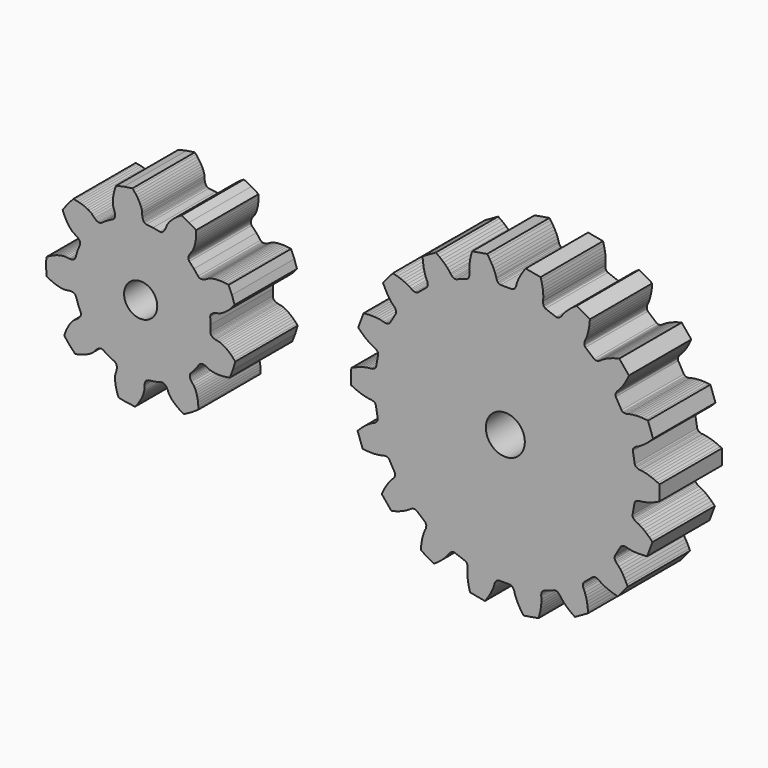
from build123d import *

# Parameters (mm, degrees)
F0_R     = 0.851162
F1_DEPTH = 4
F2_R     = 1
F3_DEPTH = 4


with BuildPart() as f1:
    # F0 (on Front) → F1 (new body)
    with BuildSketch(Plane.XZ):
        Polygon((3.59098, -0.370325), (3.57504, -0.289715), (3.58716, 0.055025), (3.56542, 0.399285), (3.5791, 0.480305), (3.59822, 0.513685), (3.61834, 0.538735), (3.63903, 0.559275), (3.66012, 0.576805), (3.70318, 0.605615), (3.74711, 0.628475), (3.79175, 0.646935), (3.83697, 0.661885), (3.92889, 0.683245), (4.02121, 0.702215), (4.11046, 0.738385), (4.19784, 0.783975), (4.28355, 0.837035), (4.36762, 0.896645), (4.44997, 0.962245), (4.53055, 1.033465), (4.60923, 1.110005), (4.68592, 1.191645), (4.7605, 1.278205), (4.81497, 1.346245), (4.67976, 1.755205), (4.50935, 2.150785), (4.42344, 2.165505), (4.31021, 2.180725), (4.19865, 2.190855), (4.08899, 2.195855), (3.98146, 2.195615), (3.87632, 2.189985), (3.77388, 2.178755), (3.67456, 2.161525), (3.57895, 2.137605), (3.4882, 2.105395), (3.40655, 2.058285), (3.32364, 2.013235), (3.2799, 1.994385), (3.23426, 1.978565), (3.18623, 1.966485), (3.13491, 1.959445), (3.1075, 1.958545), (3.07839, 1.960175), (3.04671, 1.965545), (3.01025, 1.977815), (2.94623, 2.029315), (2.73392, 2.301195), (2.49597, 2.550935), (2.45438, 2.621795), (2.44757, 2.659655), (2.44688, 2.691785), (2.44953, 2.720815), (2.45442, 2.747795), (2.46888, 2.797535), (2.48784, 2.843295), (2.51017, 2.886135), (2.53521, 2.926645), (2.59189, 3.002085), (2.65041, 3.075975), (2.69553, 3.161045), (2.73316, 3.252135), (2.76472, 3.347885), (2.7908, 3.447575), (2.81172, 3.550765), (2.82767, 3.657115), (2.83874, 3.766325), (2.84501, 3.878165), (2.8465, 3.992405), (2.84449, 4.079545), (2.47805, 4.305915), (2.09323, 4.499415), (2.01796, 4.455465), (1.92143, 4.394335), (1.82946, 4.330395), (1.74225, 4.263735), (1.66003, 4.194425), (1.5831, 4.122535), (1.51185, 4.048085), (1.44684, 3.971045), (1.38897, 3.891255), (1.34016, 3.808255), (1.30789, 3.719685), (1.27334, 3.631885), (1.25195, 3.589325), (1.22716, 3.547865), (1.19812, 3.507745), (1.16334, 3.469355), (1.14292, 3.451055), (1.11958, 3.433585), (1.09185, 3.417345), (1.05604, 3.403305), (0.97389, 3.401605), (0.63649, 3.473405), (0.29368, 3.511775), (0.21627, 3.539315), (0.18672, 3.563945), (0.16554, 3.588105), (0.14891, 3.612055), (0.13531, 3.635865), (0.11441, 3.683265), (0.09953, 3.730505), (0.0891, 3.777665), (0.08223, 3.824795), (0.07716, 3.919025), (0.0745, 4.013245), (0.05438, 4.107415), (0.02465, 4.201385), (-0.01271, 4.295015), (-0.05682, 4.388145), (-0.10712, 4.480645), (-0.16326, 4.572355), (-0.22498, 4.663145), (-0.29207, 4.752845), (-0.36436, 4.841315), (-0.42191, 4.906775), (-0.84813, 4.844635), (-1.26729, 4.745505), (-1.29671, 4.663465), (-1.33136, 4.554585), (-1.36071, 4.446485), (-1.38467, 4.339365), (-1.40311, 4.233425), (-1.41583, 4.128905), (-1.42255, 4.026075), (-1.42283, 3.925265), (-1.41587, 3.826945), (-1.39992, 3.731985), (-1.3677, 3.643405), (-1.33773, 3.553925), (-1.32676, 3.507575), (-1.3191, 3.459885), (-1.31555, 3.410485), (-1.31753, 3.358715), (-1.32141, 3.331575), (-1.32806, 3.303185), (-1.33885, 3.272925), (-1.35727, 3.239155), (-1.4191, 3.185045), (-1.72372, 3.023175), (-2.01099, 2.832205), (-2.08799, 2.803555), (-2.12646, 2.803415), (-2.15822, 2.808315), (-2.18635, 2.815965), (-2.21207, 2.825465), (-2.25855, 2.848345), (-2.30031, 2.874965), (-2.33862, 2.904395), (-2.37418, 2.936085), (-2.43863, 3.005005), (-2.50123, 3.075475), (-2.57717, 3.134675), (-2.66035, 3.187555), (-2.74916, 3.235255), (-2.84281, 3.278255), (-2.9408, 3.316775), (-3.04276, 3.350945), (-3.14839, 3.380815), (-3.25744, 3.406415), (-3.36969, 3.427715), (-3.45585, 3.440865), (-3.74242, 3.119295), (-3.99979, 2.773925), (-3.96959, 2.692165), (-3.92615, 2.586495), (-3.87915, 2.484815), (-3.82864, 2.387355), (-3.77467, 2.294345), (-3.71723, 2.206105), (-3.65628, 2.123005), (-3.5917, 2.045605), (-3.52317, 1.974765), (-3.44991, 1.912275), (-3.36829, 1.865125), (-3.28782, 1.815845), (-3.24963, 1.787395), (-3.2131, 1.755785), (-3.17862, 1.720215), (-3.14687, 1.679295), (-3.13239, 1.656005), (-3.11924, 1.629985), (-3.10805, 1.599865), (-3.10045, 1.562155), (-3.11303, 1.480965), (-3.24234, 1.161155), (-3.33965, 0.830215), (-3.38022, 0.758765), (-3.4096, 0.733935), (-3.43708, 0.717275), (-3.46354, 0.705055), (-3.48936, 0.695795), (-3.53966, 0.683455), (-3.58877, 0.676995), (-3.63703, 0.674915), (-3.68464, 0.676335), (-3.77831, 0.687705), (-3.87156, 0.701445), (-3.9678, 0.697985), (-4.0655, 0.685025), (-4.16419, 0.664485), (-4.26357, 0.637225), (-4.3634, 0.603745), (-4.46347, 0.564385), (-4.56359, 0.519365), (-4.66358, 0.468875), (-4.76326, 0.413045), (-4.83772, 0.367735), (-4.85054, -0.062795), (-4.8257, -0.492805), (-4.75001, -0.536025), (-4.64881, -0.589045), (-4.54745, -0.636725), (-4.44611, -0.678925), (-4.34498, -0.715485), (-4.24426, -0.746155), (-4.14415, -0.770635), (-4.04493, -0.788415), (-3.9469, -0.798635), (-3.85061, -0.799415), (-3.75778, -0.783065), (-3.66445, -0.769095), (-3.61691, -0.766335), (-3.56861, -0.767075), (-3.51934, -0.772155), (-3.4687, -0.783095), (-3.44265, -0.791625), (-3.41585, -0.803105), (-3.38792, -0.818995), (-3.35785, -0.842985), (-3.3153, -0.913275), (-3.20879, -1.241375), (-3.07061, -1.557445), (-3.05576, -1.638255), (-3.06231, -1.676165), (-3.07265, -1.706585), (-3.08507, -1.732965), (-3.09889, -1.756645), (-3.12949, -1.798435), (-3.16296, -1.834945), (-3.19859, -1.867565), (-3.23597, -1.897075), (-3.31504, -1.948585), (-3.39531, -1.997995), (-3.4668, -2.062505), (-3.53332, -2.135235), (-3.59572, -2.214405), (-3.65432, -2.299175), (-3.70927, -2.388985), (-3.76063, -2.483465), (-3.80839, -2.582305), (-3.85253, -2.685245), (-3.89301, -2.792095), (-3.92092, -2.874665), (-3.654, -3.212715), (-3.35857, -3.526155), (-3.2728, -3.510605), (-3.16119, -3.486175), (-3.0529, -3.457545), (-2.94815, -3.424735), (-2.84718, -3.387735), (-2.7503, -3.346485), (-2.65789, -3.300895), (-2.57045, -3.250725), (-2.48878, -3.195555), (-2.41452, -3.134245), (-2.35391, -3.062055), (-2.29141, -2.991365), (-2.25675, -2.958695), (-2.21928, -2.928215), (-2.17827, -2.900435), (-2.13246, -2.876265), (-2.10701, -2.866055), (-2.0791, -2.857625), (-2.04749, -2.851835), (-2.00904, -2.850895), (-1.93126, -2.877385), (-1.63877, -3.060255), (-1.32975, -3.213565), (-1.26643, -3.265925), (-1.24709, -3.299175), (-1.23545, -3.329125), (-1.22801, -3.357305), (-1.22337, -3.384335), (-1.21995, -3.436025), (-1.22212, -3.485505), (-1.22845, -3.533395), (-1.23812, -3.580025), (-1.26558, -3.670305), (-1.2953, -3.759755), (-1.30861, -3.855125), (-1.31281, -3.953595), (-1.30972, -4.054355), (-1.30013, -4.156965), (-1.28449, -4.261085), (-1.26311, -4.366475), (-1.23616, -4.472885), (-1.2038, -4.580125), (-1.16613, -4.687985), (-1.13444, -4.769185), (-0.71267, -4.856565), (-0.28488, -4.906775), (-0.22918, -4.839735), (-0.15938, -4.749285), (-0.09483, -4.657745), (-0.03567, -4.565275), (0.01789, -4.472025), (0.06559, -4.378165), (0.10708, -4.283825), (0.14182, -4.189195), (0.16891, -4.094435), (0.18639, -3.999735), (0.18642, -3.905485), (0.18886, -3.811145), (0.1944, -3.763845), (0.20351, -3.716405), (0.21708, -3.668775), (0.23664, -3.620805), (0.24956, -3.596625), (0.26552, -3.572225), (0.28602, -3.547475), (0.31487, -3.522035), (0.39148, -3.492335), (0.73309, -3.444415), (1.06835, -3.363215), (1.15051, -3.362635), (1.18671, -3.375665), (1.21487, -3.391125), (1.23869, -3.407935), (1.25961, -3.425665), (1.29546, -3.463055), (1.32561, -3.502355), (1.35154, -3.543115), (1.37411, -3.585055), (1.4111, -3.671855), (1.44583, -3.759485), (1.49694, -3.841095), (1.55702, -3.919235), (1.62415, -3.994435), (1.69745, -4.066865), (1.77636, -4.136585), (1.86048, -4.203565), (1.94952, -4.267765), (2.04324, -4.329105), (2.14144, -4.387525), (2.21791, -4.429345), (2.59717, -4.225185), (2.95715, -3.988665), (2.95673, -3.901505), (2.95205, -3.787355), (2.94266, -3.675735), (2.92854, -3.566875), (2.90963, -3.461015), (2.88584, -3.358445), (2.85698, -3.259515), (2.82276, -3.164695), (2.78261, -3.074685), (2.73513, -2.990915), (2.67456, -2.918685), (2.6158, -2.844855), (2.58964, -2.805055), (2.56613, -2.762855), (2.54589, -2.717645), (2.53005, -2.668335), (2.52441, -2.641495), (2.52095, -2.612545), (2.52074, -2.580415), (2.52649, -2.542385), (2.56609, -2.470385), (2.79697, -2.214095), (3.0016, -1.936395), (3.06417, -1.883125), (3.10027, -1.869845), (3.13179, -1.863595), (3.16084, -1.861155), (3.18826, -1.861285), (3.23975, -1.866895), (3.28811, -1.877625), (3.33417, -1.892165), (3.37842, -1.909785), (3.46256, -1.952505), (3.54549, -1.997315), (3.6371, -2.026975), (3.73334, -2.048215), (3.83311, -2.062665), (3.93582, -2.071045), (4.04108, -2.073725), (4.14857, -2.070965), (4.25805, -2.062905), (4.36928, -2.049655), (4.48204, -2.031285), (4.56751, -2.014175), (4.72681, -1.613995), (4.85054, -1.201415), (4.79419, -1.134925), (4.71723, -1.050475), (4.63829, -0.971015), (4.5575, -0.896695), (4.47497, -0.827755), (4.39081, -0.764485), (4.30512, -0.707245), (4.21795, -0.656605), (4.12933, -0.613465), (4.03911, -0.579805), (3.94629, -0.563415), (3.85382, -0.544625), (3.8082, -0.530955), (3.76306, -0.513745), (3.7185, -0.492115), (3.67466, -0.464515), (3.65309, -0.447585), (3.63184, -0.427635), (3.61103, -0.403155), align=None)
        Circle(F0_R, mode=Mode.SUBTRACT)
    extrude(amount=F1_DEPTH)


with BuildPart() as f3:
    # F2 (on Front) → F3 (new body)
    with BuildSketch(Plane.XZ):
        Polygon((-6.679609, -0.746446), (-6.639398, -0.826298), (-6.541832, -1.403135), (-6.553548, -1.491771), (-6.576151, -1.52988), (-6.600726, -1.559007), (-6.652836, -1.604091), (-6.706114, -1.643792), (-6.763373, -1.667026), (-6.875589, -1.722563), (-6.985382, -1.787186), (-7.093029, -1.85932), (-7.198625, -1.938134), (-7.302205, -2.023075), (-7.403743, -2.113744), (-7.503204, -2.209856), (-7.576411, -2.285364), (-7.315713, -3.017485), (-7.211259, -3.029729), (-7.073438, -3.041342), (-6.937443, -3.047434), (-6.803499, -3.047797), (-6.671847, -3.042129), (-6.542835, -3.029997), (-6.416904, -3.010683), (-6.294849, -2.982794), (-6.235791, -2.964613), (-6.169411, -2.961706), (-6.10054, -2.963713), (-6.06308, -2.970748), (-6.021483, -2.985995), (-5.956385, -3.047278), (-5.667408, -3.555953), (-5.648102, -3.643256), (-5.656314, -3.686791), (-5.669442, -3.722564), (-5.70299, -3.782756), (-5.739473, -3.838284), (-5.785326, -3.879707), (-5.87179, -3.970264), (-5.952854, -4.068539), (-6.029341, -4.173149), (-6.101613, -4.283331), (-6.169896, -4.398567), (-6.234294, -4.518502), (-6.294893, -4.642832), (-6.337856, -4.738823), (-5.842481, -5.337622), (-5.740139, -5.313411), (-5.606653, -5.277188), (-5.476785, -5.236396), (-5.350784, -5.190923), (-5.229015, -5.14057), (-5.111936, -5.08505), (-5.000205, -5.023828), (-4.89505, -4.955874), (-4.845769, -4.918595), (-4.784383, -4.893155), (-4.718981, -4.871487), (-4.681374, -4.865291), (-4.637069, -4.865386), (-4.554941, -4.9007), (-4.109409, -5.27987), (-4.061418, -5.355301), (-4.054236, -5.399026), (-4.054339, -5.437135), (-4.065277, -5.505167), (-4.080576, -5.569825), (-4.109495, -5.624427), (-4.159762, -5.739101), (-4.202337, -5.859174), (-4.238421, -5.983634), (-4.268655, -6.111884), (-4.293404, -6.243527), (-4.312908, -6.378259), (-4.327316, -6.515811), (-4.334862, -6.620715), (-3.664561, -7.013973), (-3.576678, -6.95622), (-3.463631, -6.876524), (-3.355534, -6.793772), (-3.25269, -6.707949), (-3.155487, -6.618993), (-3.064455, -6.526766), (-2.980405, -6.431026), (-2.904836, -6.331202), (-2.87127, -6.279317), (-2.822292, -6.234415), (-2.768244, -6.191685), (-2.735033, -6.173002), (-2.693358, -6.157937), (-2.6041, -6.163034), (-2.055758, -6.366957), (-1.984862, -6.42143), (-1.963159, -6.460058), (-1.950222, -6.4959), (-1.937234, -6.563569), (-1.929489, -6.629559), (-1.937995, -6.690763), (-1.946008, -6.815717), (-1.944944, -6.943111), (-1.936291, -7.072408), (-1.920836, -7.203263), (-1.899064, -7.335434), (-1.871313, -7.468703), (-1.837808, -7.602898), (-1.809018, -7.704047), (-1.044638, -7.844334), (-0.981807, -7.759999), (-0.902837, -7.64645), (-0.829561, -7.531725), (-0.762281, -7.415901), (-0.701362, -7.299055), (-0.647357, -7.181258), (-0.601122, -7.062543), (-0.564251, -6.942894), (-0.550457, -6.882659), (-0.51979, -6.823721), (-0.483619, -6.765078), (-0.458793, -6.736159), (-0.424794, -6.70775), (-0.33917, -6.682015), (0.245844, -6.686099), (0.331097, -6.713028), (0.364706, -6.741904), (0.389117, -6.77117), (0.424466, -6.830315), (0.454311, -6.889677), (0.467256, -6.950094), (0.502458, -7.070254), (0.547031, -7.1896), (0.599383, -7.308141), (0.658667, -7.425817), (0.724328, -7.542567), (0.795986, -7.658314), (0.873364, -7.772953), (0.935018, -7.858153), (1.701276, -7.728553), (1.731476, -7.627811), (1.766851, -7.4941), (1.796462, -7.361229), (1.820077, -7.229379), (1.837358, -7.098749), (1.847811, -6.96959), (1.850658, -6.842222), (1.844384, -6.717173), (1.836743, -6.655856), (1.845405, -6.589979), (1.859337, -6.5225), (1.872776, -6.48684), (1.895014, -6.448515), (1.966664, -6.395046), (2.5178, -6.198789), (2.60712, -6.194947), (2.648578, -6.210584), (2.681529, -6.229733), (2.734972, -6.273216), (2.783318, -6.318793), (2.816157, -6.371146), (2.890325, -6.472008), (2.973033, -6.568916), (3.062767, -6.662398), (3.158724, -6.752712), (3.260357, -6.839964), (3.367285, -6.924212), (3.479207, -7.005475), (3.566276, -7.064456), (4.242003, -6.680587), (4.23592, -6.575597), (4.223433, -6.437854), (4.205815, -6.302871), (4.18291, -6.170891), (4.154467, -6.042225), (4.120122, -5.91728), (4.079226, -5.796619), (4.030569, -5.681262), (4.002411, -5.626253), (3.988021, -5.561388), (3.978035, -5.493209), (3.978459, -5.455108), (3.986255, -5.411487), (4.035293, -5.33674), (4.486069, -4.963826), (4.568691, -4.929654), (4.612996, -4.930174), (4.650508, -4.936897), (4.715607, -4.959482), (4.776621, -4.985771), (4.825374, -5.023733), (4.929576, -5.09315), (5.040434, -5.155929), (5.156734, -5.213084), (5.277794, -5.265125), (5.403136, -5.312355), (5.532434, -5.354955), (5.665392, -5.393038), (5.767388, -5.418678), (6.27107, -4.826853), (6.229457, -4.730274), (6.170606, -4.605104), (6.107878, -4.484287), (6.041222, -4.368099), (5.97049, -4.25693), (5.895474, -4.151265), (5.815786, -4.051865), (5.730594, -3.960105), (5.685329, -3.918041), (5.649617, -3.862011), (5.616916, -3.80136), (5.604291, -3.765406), (5.596693, -3.721759), (5.61721, -3.634741), (5.913257, -3.130142), (5.979203, -3.069777), (6.021016, -3.055109), (6.058563, -3.048602), (6.12746, -3.047555), (6.193788, -3.051388), (6.252587, -3.070391), (6.374243, -3.099985), (6.499889, -3.121056), (6.628728, -3.134988), (6.760284, -3.14249), (6.89422, -3.144005), (7.030284, -3.139808), (7.168261, -3.130116), (7.27287, -3.119334), (7.543762, -2.390926), (7.471619, -2.314405), (7.373508, -2.216908), (7.273251, -2.124829), (7.170865, -2.038451), (7.066377, -1.958175), (6.959751, -1.884535), (6.850867, -1.81839), (6.739438, -1.761295), (6.682508, -1.737256), (6.629792, -1.696819), (6.578323, -1.651009), (6.554154, -1.621545), (6.532088, -1.583133), (6.5216, -1.494341), (6.627214, -0.918915), (6.668542, -0.839633), (6.702818, -0.811562), (6.735873, -0.792594), (6.800254, -0.768053), (6.863899, -0.748973), (6.925648, -0.746714), (7.050091, -0.732912), (7.175365, -0.709739), (7.301193, -0.678768), (7.427384, -0.640824), (7.553765, -0.596432), (7.680189, -0.545958), (7.806519, -0.489659), (7.901134, -0.443745), (7.90656, 0.333381), (7.812602, 0.380619), (7.68706, 0.438674), (7.561354, 0.490906), (7.435604, 0.537062), (7.309958, 0.576763), (7.184572, 0.60949), (7.059636, 0.634403), (6.935401, 0.649944), (6.873685, 0.65306), (6.810317, 0.673031), (6.746283, 0.698472), (6.713496, 0.717899), (6.679618, 0.746446), (6.639398, 0.826298), (6.541832, 1.403144), (6.553548, 1.491771), (6.576159, 1.52988), (6.600735, 1.559007), (6.652836, 1.604091), (6.706114, 1.643792), (6.763373, 1.667035), (6.875589, 1.722563), (6.985382, 1.787186), (7.093029, 1.85932), (7.198634, 1.938134), (7.302205, 2.023075), (7.403743, 2.113744), (7.503204, 2.209856), (7.576411, 2.285364), (7.315713, 3.017485), (7.211259, 3.029729), (7.073438, 3.041351), (6.937443, 3.047442), (6.803499, 3.047797), (6.671847, 3.042129), (6.542835, 3.029997), (6.416913, 3.010683), (6.294849, 2.982794), (6.235791, 2.964613), (6.169411, 2.961706), (6.10054, 2.963713), (6.063088, 2.970748), (6.021483, 2.985995), (5.956385, 3.047278), (5.667408, 3.555962), (5.648111, 3.643256), (5.656314, 3.686799), (5.66945, 3.722572), (5.70299, 3.782756), (5.739481, 3.838284), (5.785335, 3.879707), (5.87179, 3.970273), (5.952863, 4.068548), (6.029341, 4.173149), (6.101621, 4.283331), (6.169896, 4.398567), (6.234302, 4.518502), (6.294893, 4.642832), (6.337856, 4.738823), (5.842481, 5.337631), (5.740139, 5.313411), (5.606662, 5.277188), (5.476785, 5.236405), (5.350784, 5.190923), (5.229024, 5.140578), (5.111936, 5.08505), (5.000205, 5.023828), (4.89505, 4.955874), (4.845769, 4.918595), (4.784392, 4.893155), (4.718981, 4.871487), (4.681383, 4.865291), (4.637069, 4.865386), (4.554941, 4.9007), (4.109418, 5.279879), (4.061418, 5.35531), (4.054236, 5.399026), (4.054348, 5.437135), (4.065277, 5.505167), (4.080576, 5.569825), (4.109495, 5.624427), (4.159762, 5.739101), (4.202337, 5.859182), (4.238429, 5.983634), (4.268664, 6.111884), (4.293404, 6.243535), (4.312908, 6.378259), (4.327325, 6.51582), (4.334862, 6.620715), (3.664561, 7.013973), (3.576678, 6.95622), (3.463631, 6.876524), (3.355534, 6.793781), (3.252699, 6.707949), (3.155487, 6.618993), (3.064455, 6.526766), (2.980405, 6.431026), (2.904836, 6.331202), (2.87127, 6.279317), (2.822292, 6.234424), (2.768244, 6.191685), (2.735033, 6.173002), (2.693367, 6.157937), (2.6041, 6.163034), (2.055767, 6.366966), (1.984862, 6.42143), (1.963159, 6.460058), (1.950231, 6.4959), (1.937234, 6.563569), (1.929498, 6.629559), (1.937995, 6.690763), (1.946008, 6.815717), (1.944944, 6.943111), (1.936291, 7.072408), (1.920845, 7.203263), (1.899073, 7.335434), (1.871313, 7.468703), (1.837808, 7.602898), (1.809018, 7.704047), (1.044638, 7.844334), (0.981807, 7.759999), (0.902837, 7.64645), (0.829569, 7.531725), (0.762281, 7.415901), (0.701362, 7.299055), (0.647366, 7.181258), (0.601131, 7.062543), (0.564251, 6.942894), (0.550466, 6.882659), (0.51979, 6.823721), (0.483619, 6.765078), (0.458802, 6.736159), (0.424794, 6.707759), (0.339179, 6.682015), (-0.245844, 6.686099), (-0.331097, 6.713028), (-0.364697, 6.741913), (-0.389117, 6.77117), (-0.424466, 6.830315), (-0.454311, 6.889677), (-0.467256, 6.950094), (-0.502458, 7.070254), (-0.547031, 7.1896), (-0.599383, 7.308141), (-0.658658, 7.425817), (-0.724319, 7.542576), (-0.795986, 7.658314), (-0.873364, 7.772953), (-0.935018, 7.858153), (-1.701276, 7.728553), (-1.731476, 7.627811), (-1.766851, 7.4941), (-1.796462, 7.361229), (-1.820077, 7.229379), (-1.837358, 7.098749), (-1.847811, 6.96959), (-1.850658, 6.842222), (-1.844384, 6.717173), (-1.836743, 6.655856), (-1.845405, 6.589979), (-1.859337, 6.5225), (-1.872776, 6.48684), (-1.895014, 6.448515), (-1.966664, 6.395046), (-2.5178, 6.198798), (-2.60712, 6.194947), (-2.648578, 6.210584), (-2.681521, 6.229733), (-2.734972, 6.273216), (-2.783318, 6.318793), (-2.816149, 6.371146), (-2.890325, 6.472008), (-2.973033, 6.568916), (-3.062767, 6.662407), (-3.158715, 6.752712), (-3.260357, 6.839964), (-3.367277, 6.924212), (-3.479198, 7.005475), (-3.566276, 7.064456), (-4.241995, 6.680596), (-4.23592, 6.575597), (-4.223433, 6.437854), (-4.205815, 6.302871), (-4.18291, 6.170891), (-4.154467, 6.042234), (-4.120113, 5.91728), (-4.079226, 5.796619), (-4.03056, 5.681262), (-4.002411, 5.626253), (-3.988021, 5.561388), (-3.978035, 5.493217), (-3.978459, 5.455108), (-3.986247, 5.411487), (-4.035293, 5.33674), (-4.486069, 4.963826), (-4.568691, 4.929654), (-4.612996, 4.930174), (-4.650499, 4.936897), (-4.715598, 4.959482), (-4.776621, 4.985771), (-4.825374, 5.023733), (-4.929576, 5.09315), (-5.040434, 5.155929), (-5.156734, 5.213084), (-5.277785, 5.265125), (-5.403136, 5.312355), (-5.532425, 5.354955), (-5.665392, 5.393038), (-5.767388, 5.418678), (-6.27107, 4.826853), (-6.229457, 4.730274), (-6.170606, 4.605104), (-6.107878, 4.484287), (-6.041213, 4.368099), (-5.97049, 4.25693), (-5.895474, 4.151265), (-5.815777, 4.051865), (-5.730594, 3.960105), (-5.685329, 3.918041), (-5.649617, 3.862011), (-5.616916, 3.80136), (-5.604282, 3.765415), (-5.596685, 3.721759), (-5.61721, 3.634741), (-5.913257, 3.130142), (-5.979203, 3.069777), (-6.021016, 3.055118), (-6.058563, 3.048602), (-6.12746, 3.047555), (-6.193788, 3.051388), (-6.252587, 3.070391), (-6.374243, 3.099985), (-6.499889, 3.121056), (-6.628728, 3.134988), (-6.760275, 3.14249), (-6.89422, 3.144005), (-7.030284, 3.139808), (-7.168261, 3.130116), (-7.27287, 3.119334), (-7.543762, 2.390926), (-7.471619, 2.314405), (-7.373508, 2.216917), (-7.273242, 2.124829), (-7.170865, 2.03846), (-7.066377, 1.958175), (-6.959742, 1.884544), (-6.850867, 1.81839), (-6.739438, 1.761304), (-6.682508, 1.737265), (-6.629792, 1.696828), (-6.578323, 1.651018), (-6.554154, 1.621553), (-6.532079, 1.583133), (-6.5216, 1.494341), (-6.627214, 0.918923), (-6.668542, 0.839642), (-6.702818, 0.811562), (-6.735864, 0.792594), (-6.800254, 0.768053), (-6.863899, 0.748973), (-6.925648, 0.746714), (-7.050091, 0.732912), (-7.175365, 0.709739), (-7.301193, 0.678768), (-7.427375, 0.640824), (-7.553756, 0.596432), (-7.680189, 0.545958), (-7.806519, 0.489659), (-7.901134, 0.443745), (-7.90656, -0.333381), (-7.812593, -0.380619), (-7.68706, -0.438674), (-7.561354, -0.490906), (-7.435604, -0.537062), (-7.309958, -0.576755), (-7.184572, -0.609482), (-7.059636, -0.634403), (-6.935401, -0.649944), (-6.873685, -0.65306), (-6.810309, -0.673031), (-6.746274, -0.698472), (-6.713487, -0.71789), align=None)
        Circle(F2_R, mode=Mode.SUBTRACT)
        Polygon((-6.679609, -0.746446), (-6.639398, -0.826298), (-6.541832, -1.403135), (-6.553548, -1.491771), (-6.576151, -1.52988), (-6.600726, -1.559007), (-6.652836, -1.604091), (-6.706114, -1.643792), (-6.763373, -1.667026), (-6.875589, -1.722563), (-6.985382, -1.787186), (-7.093029, -1.85932), (-7.198625, -1.938134), (-7.302205, -2.023075), (-7.403743, -2.113744), (-7.503204, -2.209856), (-7.576411, -2.285364), (-7.315713, -3.017485), (-7.211259, -3.029729), (-7.073438, -3.041342), (-6.937443, -3.047434), (-6.803499, -3.047797), (-6.671847, -3.042129), (-6.542835, -3.029997), (-6.416904, -3.010683), (-6.294849, -2.982794), (-6.235791, -2.964613), (-6.169411, -2.961706), (-6.10054, -2.963713), (-6.06308, -2.970748), (-6.021483, -2.985995), (-5.956385, -3.047278), (-5.667408, -3.555953), (-5.648102, -3.643256), (-5.656314, -3.686791), (-5.669442, -3.722564), (-5.70299, -3.782756), (-5.739473, -3.838284), (-5.785326, -3.879707), (-5.87179, -3.970264), (-5.952854, -4.068539), (-6.029341, -4.173149), (-6.101613, -4.283331), (-6.169896, -4.398567), (-6.234294, -4.518502), (-6.294893, -4.642832), (-6.337856, -4.738823), (-5.842481, -5.337622), (-5.740139, -5.313411), (-5.606653, -5.277188), (-5.476785, -5.236396), (-5.350784, -5.190923), (-5.229015, -5.14057), (-5.111936, -5.08505), (-5.000205, -5.023828), (-4.89505, -4.955874), (-4.845769, -4.918595), (-4.784383, -4.893155), (-4.718981, -4.871487), (-4.681374, -4.865291), (-4.637069, -4.865386), (-4.554941, -4.9007), (-4.109409, -5.27987), (-4.061418, -5.355301), (-4.054236, -5.399026), (-4.054339, -5.437135), (-4.065277, -5.505167), (-4.080576, -5.569825), (-4.109495, -5.624427), (-4.159762, -5.739101), (-4.202337, -5.859174), (-4.238421, -5.983634), (-4.268655, -6.111884), (-4.293404, -6.243527), (-4.312908, -6.378259), (-4.327316, -6.515811), (-4.334862, -6.620715), (-3.664561, -7.013973), (-3.576678, -6.95622), (-3.463631, -6.876524), (-3.355534, -6.793772), (-3.25269, -6.707949), (-3.155487, -6.618993), (-3.064455, -6.526766), (-2.980405, -6.431026), (-2.904836, -6.331202), (-2.87127, -6.279317), (-2.822292, -6.234415), (-2.768244, -6.191685), (-2.735033, -6.173002), (-2.693358, -6.157937), (-2.6041, -6.163034), (-2.055758, -6.366957), (-1.984862, -6.42143), (-1.963159, -6.460058), (-1.950222, -6.4959), (-1.937234, -6.563569), (-1.929489, -6.629559), (-1.937995, -6.690763), (-1.946008, -6.815717), (-1.944944, -6.943111), (-1.936291, -7.072408), (-1.920836, -7.203263), (-1.899064, -7.335434), (-1.871313, -7.468703), (-1.837808, -7.602898), (-1.809018, -7.704047), (-1.044638, -7.844334), (-0.981807, -7.759999), (-0.902837, -7.64645), (-0.829561, -7.531725), (-0.762281, -7.415901), (-0.701362, -7.299055), (-0.647357, -7.181258), (-0.601122, -7.062543), (-0.564251, -6.942894), (-0.550457, -6.882659), (-0.51979, -6.823721), (-0.483619, -6.765078), (-0.458793, -6.736159), (-0.424794, -6.70775), (-0.33917, -6.682015), (0.245844, -6.686099), (0.331097, -6.713028), (0.364706, -6.741904), (0.389117, -6.77117), (0.424466, -6.830315), (0.454311, -6.889677), (0.467256, -6.950094), (0.502458, -7.070254), (0.547031, -7.1896), (0.599383, -7.308141), (0.658667, -7.425817), (0.724328, -7.542567), (0.795986, -7.658314), (0.873364, -7.772953), (0.935018, -7.858153), (1.701276, -7.728553), (1.731476, -7.627811), (1.766851, -7.4941), (1.796462, -7.361229), (1.820077, -7.229379), (1.837358, -7.098749), (1.847811, -6.96959), (1.850658, -6.842222), (1.844384, -6.717173), (1.836743, -6.655856), (1.845405, -6.589979), (1.859337, -6.5225), (1.872776, -6.48684), (1.895014, -6.448515), (1.966664, -6.395046), (2.5178, -6.198789), (2.60712, -6.194947), (2.648578, -6.210584), (2.681529, -6.229733), (2.734972, -6.273216), (2.783318, -6.318793), (2.816157, -6.371146), (2.890325, -6.472008), (2.973033, -6.568916), (3.062767, -6.662398), (3.158724, -6.752712), (3.260357, -6.839964), (3.367285, -6.924212), (3.479207, -7.005475), (3.566276, -7.064456), (4.242003, -6.680587), (4.23592, -6.575597), (4.223433, -6.437854), (4.205815, -6.302871), (4.18291, -6.170891), (4.154467, -6.042225), (4.120122, -5.91728), (4.079226, -5.796619), (4.030569, -5.681262), (4.002411, -5.626253), (3.988021, -5.561388), (3.978035, -5.493209), (3.978459, -5.455108), (3.986255, -5.411487), (4.035293, -5.33674), (4.486069, -4.963826), (4.568691, -4.929654), (4.612996, -4.930174), (4.650508, -4.936897), (4.715607, -4.959482), (4.776621, -4.985771), (4.825374, -5.023733), (4.929576, -5.09315), (5.040434, -5.155929), (5.156734, -5.213084), (5.277794, -5.265125), (5.403136, -5.312355), (5.532434, -5.354955), (5.665392, -5.393038), (5.767388, -5.418678), (6.27107, -4.826853), (6.229457, -4.730274), (6.170606, -4.605104), (6.107878, -4.484287), (6.041222, -4.368099), (5.97049, -4.25693), (5.895474, -4.151265), (5.815786, -4.051865), (5.730594, -3.960105), (5.685329, -3.918041), (5.649617, -3.862011), (5.616916, -3.80136), (5.604291, -3.765406), (5.596693, -3.721759), (5.61721, -3.634741), (5.913257, -3.130142), (5.979203, -3.069777), (6.021016, -3.055109), (6.058563, -3.048602), (6.12746, -3.047555), (6.193788, -3.051388), (6.252587, -3.070391), (6.374243, -3.099985), (6.499889, -3.121056), (6.628728, -3.134988), (6.760284, -3.14249), (6.89422, -3.144005), (7.030284, -3.139808), (7.168261, -3.130116), (7.27287, -3.119334), (7.543762, -2.390926), (7.471619, -2.314405), (7.373508, -2.216908), (7.273251, -2.124829), (7.170865, -2.038451), (7.066377, -1.958175), (6.959751, -1.884535), (6.850867, -1.81839), (6.739438, -1.761295), (6.682508, -1.737256), (6.629792, -1.696819), (6.578323, -1.651009), (6.554154, -1.621545), (6.532088, -1.583133), (6.5216, -1.494341), (6.627214, -0.918915), (6.668542, -0.839633), (6.702818, -0.811562), (6.735873, -0.792594), (6.800254, -0.768053), (6.863899, -0.748973), (6.925648, -0.746714), (7.050091, -0.732912), (7.175365, -0.709739), (7.301193, -0.678768), (7.427384, -0.640824), (7.553765, -0.596432), (7.680189, -0.545958), (7.806519, -0.489659), (7.901134, -0.443745), (7.90656, 0.333381), (7.812602, 0.380619), (7.68706, 0.438674), (7.561354, 0.490906), (7.435604, 0.537062), (7.309958, 0.576763), (7.184572, 0.60949), (7.059636, 0.634403), (6.935401, 0.649944), (6.873685, 0.65306), (6.810317, 0.673031), (6.746283, 0.698472), (6.713496, 0.717899), (6.679618, 0.746446), (6.639398, 0.826298), (6.541832, 1.403144), (6.553548, 1.491771), (6.576159, 1.52988), (6.600735, 1.559007), (6.652836, 1.604091), (6.706114, 1.643792), (6.763373, 1.667035), (6.875589, 1.722563), (6.985382, 1.787186), (7.093029, 1.85932), (7.198634, 1.938134), (7.302205, 2.023075), (7.403743, 2.113744), (7.503204, 2.209856), (7.576411, 2.285364), (7.315713, 3.017485), (7.211259, 3.029729), (7.073438, 3.041351), (6.937443, 3.047442), (6.803499, 3.047797), (6.671847, 3.042129), (6.542835, 3.029997), (6.416913, 3.010683), (6.294849, 2.982794), (6.235791, 2.964613), (6.169411, 2.961706), (6.10054, 2.963713), (6.063088, 2.970748), (6.021483, 2.985995), (5.956385, 3.047278), (5.667408, 3.555962), (5.648111, 3.643256), (5.656314, 3.686799), (5.66945, 3.722572), (5.70299, 3.782756), (5.739481, 3.838284), (5.785335, 3.879707), (5.87179, 3.970273), (5.952863, 4.068548), (6.029341, 4.173149), (6.101621, 4.283331), (6.169896, 4.398567), (6.234302, 4.518502), (6.294893, 4.642832), (6.337856, 4.738823), (5.842481, 5.337631), (5.740139, 5.313411), (5.606662, 5.277188), (5.476785, 5.236405), (5.350784, 5.190923), (5.229024, 5.140578), (5.111936, 5.08505), (5.000205, 5.023828), (4.89505, 4.955874), (4.845769, 4.918595), (4.784392, 4.893155), (4.718981, 4.871487), (4.681383, 4.865291), (4.637069, 4.865386), (4.554941, 4.9007), (4.109418, 5.279879), (4.061418, 5.35531), (4.054236, 5.399026), (4.054348, 5.437135), (4.065277, 5.505167), (4.080576, 5.569825), (4.109495, 5.624427), (4.159762, 5.739101), (4.202337, 5.859182), (4.238429, 5.983634), (4.268664, 6.111884), (4.293404, 6.243535), (4.312908, 6.378259), (4.327325, 6.51582), (4.334862, 6.620715), (3.664561, 7.013973), (3.576678, 6.95622), (3.463631, 6.876524), (3.355534, 6.793781), (3.252699, 6.707949), (3.155487, 6.618993), (3.064455, 6.526766), (2.980405, 6.431026), (2.904836, 6.331202), (2.87127, 6.279317), (2.822292, 6.234424), (2.768244, 6.191685), (2.735033, 6.173002), (2.693367, 6.157937), (2.6041, 6.163034), (2.055767, 6.366966), (1.984862, 6.42143), (1.963159, 6.460058), (1.950231, 6.4959), (1.937234, 6.563569), (1.929498, 6.629559), (1.937995, 6.690763), (1.946008, 6.815717), (1.944944, 6.943111), (1.936291, 7.072408), (1.920845, 7.203263), (1.899073, 7.335434), (1.871313, 7.468703), (1.837808, 7.602898), (1.809018, 7.704047), (1.044638, 7.844334), (0.981807, 7.759999), (0.902837, 7.64645), (0.829569, 7.531725), (0.762281, 7.415901), (0.701362, 7.299055), (0.647366, 7.181258), (0.601131, 7.062543), (0.564251, 6.942894), (0.550466, 6.882659), (0.51979, 6.823721), (0.483619, 6.765078), (0.458802, 6.736159), (0.424794, 6.707759), (0.339179, 6.682015), (-0.245844, 6.686099), (-0.331097, 6.713028), (-0.364697, 6.741913), (-0.389117, 6.77117), (-0.424466, 6.830315), (-0.454311, 6.889677), (-0.467256, 6.950094), (-0.502458, 7.070254), (-0.547031, 7.1896), (-0.599383, 7.308141), (-0.658658, 7.425817), (-0.724319, 7.542576), (-0.795986, 7.658314), (-0.873364, 7.772953), (-0.935018, 7.858153), (-1.701276, 7.728553), (-1.731476, 7.627811), (-1.766851, 7.4941), (-1.796462, 7.361229), (-1.820077, 7.229379), (-1.837358, 7.098749), (-1.847811, 6.96959), (-1.850658, 6.842222), (-1.844384, 6.717173), (-1.836743, 6.655856), (-1.845405, 6.589979), (-1.859337, 6.5225), (-1.872776, 6.48684), (-1.895014, 6.448515), (-1.966664, 6.395046), (-2.5178, 6.198798), (-2.60712, 6.194947), (-2.648578, 6.210584), (-2.681521, 6.229733), (-2.734972, 6.273216), (-2.783318, 6.318793), (-2.816149, 6.371146), (-2.890325, 6.472008), (-2.973033, 6.568916), (-3.062767, 6.662407), (-3.158715, 6.752712), (-3.260357, 6.839964), (-3.367277, 6.924212), (-3.479198, 7.005475), (-3.566276, 7.064456), (-4.241995, 6.680596), (-4.23592, 6.575597), (-4.223433, 6.437854), (-4.205815, 6.302871), (-4.18291, 6.170891), (-4.154467, 6.042234), (-4.120113, 5.91728), (-4.079226, 5.796619), (-4.03056, 5.681262), (-4.002411, 5.626253), (-3.988021, 5.561388), (-3.978035, 5.493217), (-3.978459, 5.455108), (-3.986247, 5.411487), (-4.035293, 5.33674), (-4.486069, 4.963826), (-4.568691, 4.929654), (-4.612996, 4.930174), (-4.650499, 4.936897), (-4.715598, 4.959482), (-4.776621, 4.985771), (-4.825374, 5.023733), (-4.929576, 5.09315), (-5.040434, 5.155929), (-5.156734, 5.213084), (-5.277785, 5.265125), (-5.403136, 5.312355), (-5.532425, 5.354955), (-5.665392, 5.393038), (-5.767388, 5.418678), (-6.27107, 4.826853), (-6.229457, 4.730274), (-6.170606, 4.605104), (-6.107878, 4.484287), (-6.041213, 4.368099), (-5.97049, 4.25693), (-5.895474, 4.151265), (-5.815777, 4.051865), (-5.730594, 3.960105), (-5.685329, 3.918041), (-5.649617, 3.862011), (-5.616916, 3.80136), (-5.604282, 3.765415), (-5.596685, 3.721759), (-5.61721, 3.634741), (-5.913257, 3.130142), (-5.979203, 3.069777), (-6.021016, 3.055118), (-6.058563, 3.048602), (-6.12746, 3.047555), (-6.193788, 3.051388), (-6.252587, 3.070391), (-6.374243, 3.099985), (-6.499889, 3.121056), (-6.628728, 3.134988), (-6.760275, 3.14249), (-6.89422, 3.144005), (-7.030284, 3.139808), (-7.168261, 3.130116), (-7.27287, 3.119334), (-7.543762, 2.390926), (-7.471619, 2.314405), (-7.373508, 2.216917), (-7.273242, 2.124829), (-7.170865, 2.03846), (-7.066377, 1.958175), (-6.959742, 1.884544), (-6.850867, 1.81839), (-6.739438, 1.761304), (-6.682508, 1.737265), (-6.629792, 1.696828), (-6.578323, 1.651018), (-6.554154, 1.621553), (-6.532079, 1.583133), (-6.5216, 1.494341), (-6.627214, 0.918923), (-6.668542, 0.839642), (-6.702818, 0.811562), (-6.735864, 0.792594), (-6.800254, 0.768053), (-6.863899, 0.748973), (-6.925648, 0.746714), (-7.050091, 0.732912), (-7.175365, 0.709739), (-7.301193, 0.678768), (-7.427375, 0.640824), (-7.553756, 0.596432), (-7.680189, 0.545958), (-7.806519, 0.489659), (-7.901134, 0.443745), (-7.90656, -0.333381), (-7.812593, -0.380619), (-7.68706, -0.438674), (-7.561354, -0.490906), (-7.435604, -0.537062), (-7.309958, -0.576755), (-7.184572, -0.609482), (-7.059636, -0.634403), (-6.935401, -0.649944), (-6.873685, -0.65306), (-6.810309, -0.673031), (-6.746274, -0.698472), (-6.713487, -0.71789), align=None)
        Circle(F2_R, mode=Mode.SUBTRACT)
    extrude(amount=F3_DEPTH)


with BuildPart() as f3_1:
    # F4: moved
    add(f3.part.moved(Location((18.7, 0, 0))))


solid = Compound([f1.part, f3_1.part])
